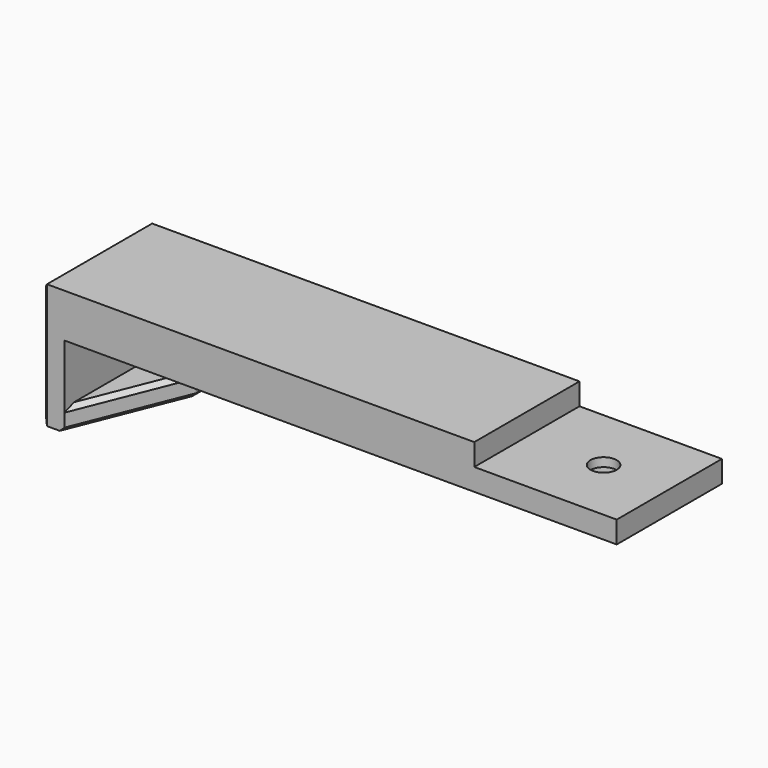
from build123d import *

# Parameters (mm, degrees)
SKETCH017_W      = 131
SKETCH017_H      = 30
PAD005_DEPTH     = 10
SKETCH016_W      = 15
SKETCH016_H      = 30
PAD006_DEPTH     = 18.5
SKETCH018_W      = 25
SKETCH018_H      = 13.5
POCKET011_DEPTH  = 10
SKETCH015_R      = 3
POCKET012_DEPTH  = 10.001
SKETCH019_W      = 32.5
SKETCH019_H      = 30
POCKET013_DEPTH  = 5
SKETCH038_R      = 5
POCKET026_DEPTH  = 3
CHAMFER006_SIZE2 = 10
CHAMFER006_SIZE  = 25
CHAMFER007_SIZE  = 1


with BuildPart() as part:
    # Sketch017 → Pad005 (new body)
    with BuildSketch(Plane.XY):
        Rectangle(SKETCH017_W, SKETCH017_H)
    extrude(amount=PAD005_DEPTH)

    # Sketch016 (on Face5 of Pad005) → Pad006 (join)
    with BuildSketch(Plane(origin=(0, 0, 0), x_dir=(1, 0, 0), z_dir=(0, 0, -1))):
        with Locations((-58, 0)):
            Rectangle(SKETCH016_W, SKETCH016_H)
    extrude(amount=PAD006_DEPTH)

    # Sketch018 (on Face9 of Pad006) → Pocket011 (cut)
    with BuildSketch(Plane.YZ.offset(-50.5)):
        with Locations((-2.5, -6.75)):
            Rectangle(SKETCH018_W, SKETCH018_H)
    extrude(amount=-POCKET011_DEPTH, mode=Mode.SUBTRACT)

    # Sketch015 (on Face5 of Pocket011) → Pocket012 (cut, through all)
    with BuildSketch(Plane(origin=(0, 0, 0), x_dir=(1, 0, 0), z_dir=(0, 0, -1))):
        with Locations((50.5, 0)):
            Circle(SKETCH015_R)
    extrude(amount=-POCKET012_DEPTH, mode=Mode.SUBTRACT)

    # Sketch019 → Pocket013 (cut)
    with BuildSketch(Plane.XY.offset(10)):
        with Locations((49.25, 0)):
            Rectangle(SKETCH019_W, SKETCH019_H)
    extrude(amount=-POCKET013_DEPTH, mode=Mode.SUBTRACT)

    # Sketch038 (on Face3 of Pocket013) → Pocket026 (cut)
    with BuildSketch(Plane(origin=(0, 0, 0), x_dir=(1, 0, 0), z_dir=(0, 0, -1))):
        with Locations((50.5, 0)):
            Circle(SKETCH038_R)
    extrude(amount=-POCKET026_DEPTH, mode=Mode.SUBTRACT)

    # Chamfer006
    chamfer006_edges = [part.edges().sort_by_distance(p)[0] for p in [
        (-50.5, -15, -16),
    ]]
    chamfer006_side = part.faces().sort_by_distance((-50.5, -2.5, -13.852456))[0]
    chamfer(chamfer006_edges, length=CHAMFER006_SIZE, length2=CHAMFER006_SIZE2, reference=chamfer006_side)

    # Chamfer007
    chamfer007_edges = [part.edges().sort_by_distance(p)[0] for p in [
        (-55.5, -2.5, -13.5),
        (-55.5, -2.5, -18.5),
        (-50.5, 15, -9.25),
        (-50.5, 12.5, -18.5),
        (-58, 15, -18.5),
        (-65.5, 0, -18.5),
        (-65.5, -15, -9.25),
        (-65.5, -15, 5),
        (-65.5, 15, -9.25),
        (-65.5, 15, 5),
        (-65.5, 0, 10),
    ]]
    chamfer(chamfer007_edges, length=CHAMFER007_SIZE)


solid = part.part
